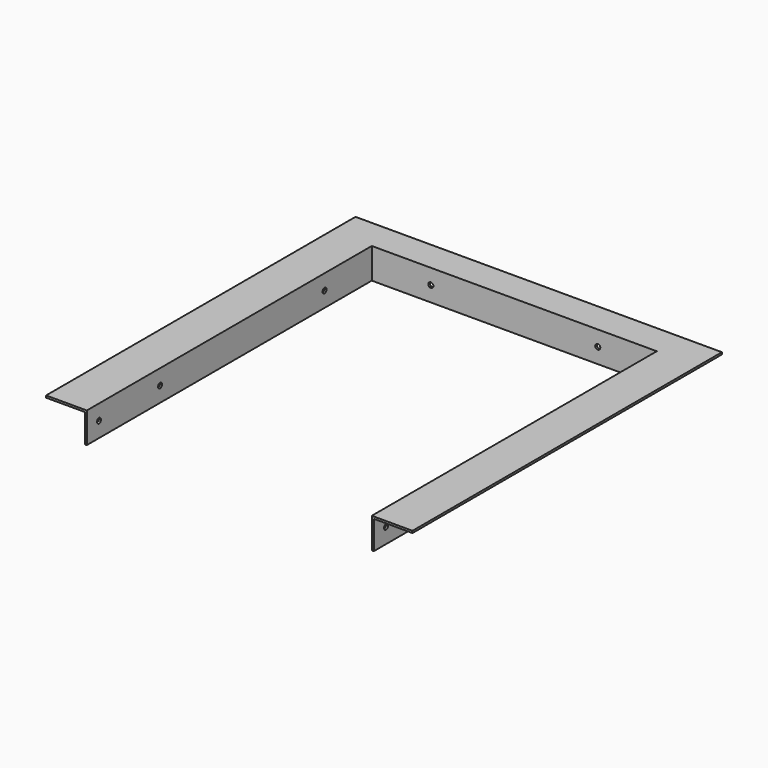
from build123d import *

# Parameters (mm, degrees)
F1_DEPTH = 38.1
F2_T     = -2.54
F3_R     = 3.175
F4_DEPTH = 408.941
F5_R     = 3.175
F6_DEPTH = 447.041


with BuildPart() as f1:
    # F0 (on Top) → F1 (new body)
    with BuildSketch(Plane.XY):
        Polygon((-177.8, -241.3), (-177.8, 203.2), (177.8, 203.2), (177.8, -241.3), (228.6, -241.3), (228.6, 241.3), (-228.6, 241.3), (-228.6, -241.3), align=None)
    extrude(amount=F1_DEPTH)

    # F2
    f2_openings = [f1.faces().sort_by_distance(p)[0] for p in [
        (-184.447816, -19.05, 0),
        (-228.6, 0, 19.05),
        (0, 241.3, 19.05),
        (228.6, 0, 19.05),
        (203.2, -241.3, 19.05),
        (-203.2, -241.3, 19.05),
    ]]
    offset(amount=F2_T, openings=f2_openings, kind=Kind.INTERSECTION)

    # F3 (on face) → F4 (cut, through all)
    with BuildSketch(Plane.YZ.offset(180.34)):
        with Locations((-222.25, 19.05)):
            Circle(F3_R)
        with Locations((-127, 19.05)):
            Circle(F3_R)
        with Locations((129.54, 19.05)):
            Circle(F3_R)
    extrude(amount=-F4_DEPTH, mode=Mode.SUBTRACT)

    # F5 (on face) → F6 (cut, through all)
    with BuildSketch(Plane(origin=(0, 205.74, 0), x_dir=(-1, 0, 0), z_dir=(0, 1, 0))):
        with Locations((-104.14, 19.05)):
            Circle(F5_R)
        with Locations((104.14, 19.05)):
            Circle(F5_R)
    extrude(amount=-F6_DEPTH, mode=Mode.SUBTRACT)


solid = f1.part
